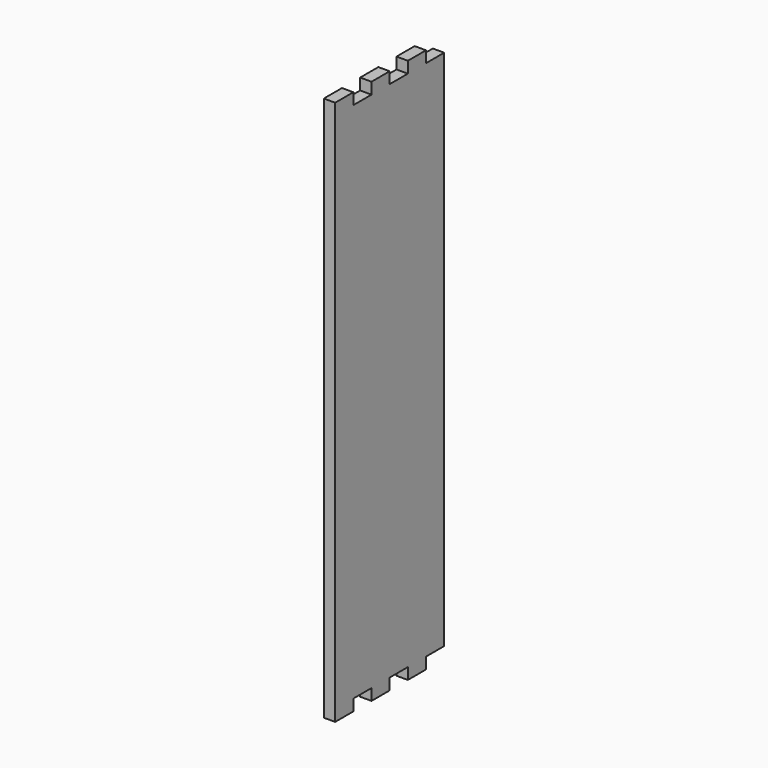
from build123d import *

# Parameters (mm, degrees)
F1_DEPTH = 12.7


with BuildPart() as f1:
    # F0 (on Right) → F1 (new body)
    with BuildSketch(Plane.YZ):
        Polygon((50.8, 292.1), (50.8, 304.8), (25.4, 304.8), (25.4, 292.1), (0, 292.1), (0, 304.8), (-25.4, 304.8), (-25.4, 292.1), (-50.8, 292.1), (-50.8, 304.8), (-76.2, 304.8), (-76.2, -304.8), (-50.8, -304.8), (-50.8, -292.1), (-25.4, -292.1), (-25.4, -304.8), (0, -304.8), (0, -292.1), (25.4, -292.1), (25.4, -304.8), (50.8, -304.8), (50.8, -292.1), (76.2, -292.1), (76.2, 292.1), align=None)
    extrude(amount=F1_DEPTH)


solid = f1.part
